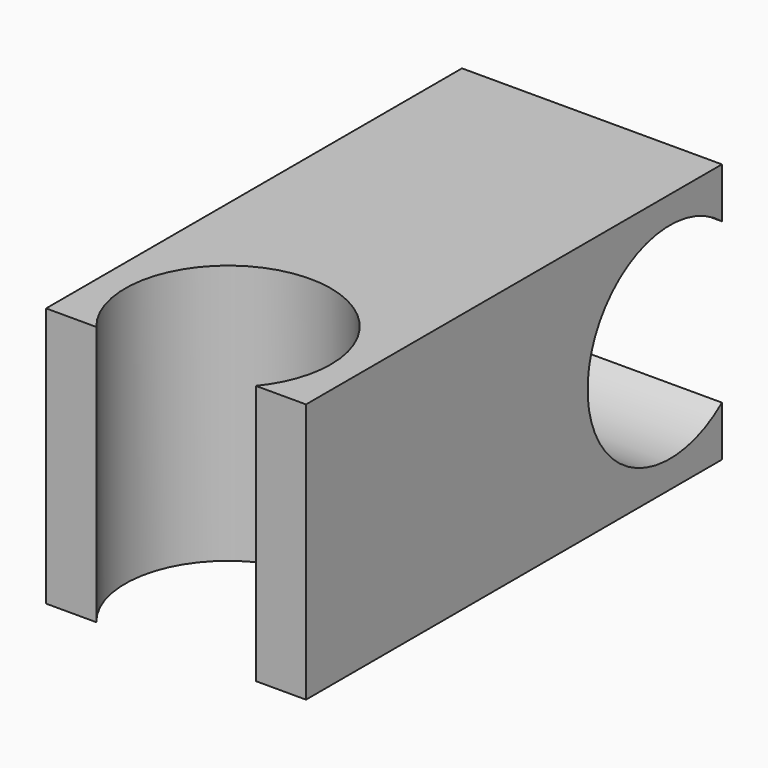
from build123d import *

# Parameters (mm, degrees)
F1_DEPTH = 12
F3_DEPTH = 12


with BuildPart() as f1:
    # F0 (on Top) → F1 (new body)
    with BuildSketch(Plane.XY):
        with BuildLine():
            Line((6, -12), (6, 12))
            Line((6, 12), (-6, 12))
            Line((-6, 12), (-6, -12))
            Line((-6, -12), (-3.6827299657, -12))
            ThreePointArc((-3.6827299657, -12), (-1.5920949505, -4.5247644008), (4.75, -9))
            ThreePointArc((4.75, -9), (4.4752355992, -10.5920949505), (3.6827299657, -12))
            Line((3.6827299657, -12), (6, -12))
        make_face()
    extrude(amount=F1_DEPTH)

    # F2 (on face) → F3 (cut, through all)
    with BuildSketch(Plane.YZ.offset(6)):
        with BuildLine():
            Line((12, 2.3172700343), (12, 9.6827299657))
            ThreePointArc((12, 9.6827299657), (4.25, 6), (12, 2.3172700343))
        make_face()
    extrude(amount=-F3_DEPTH, mode=Mode.SUBTRACT)


solid = f1.part
